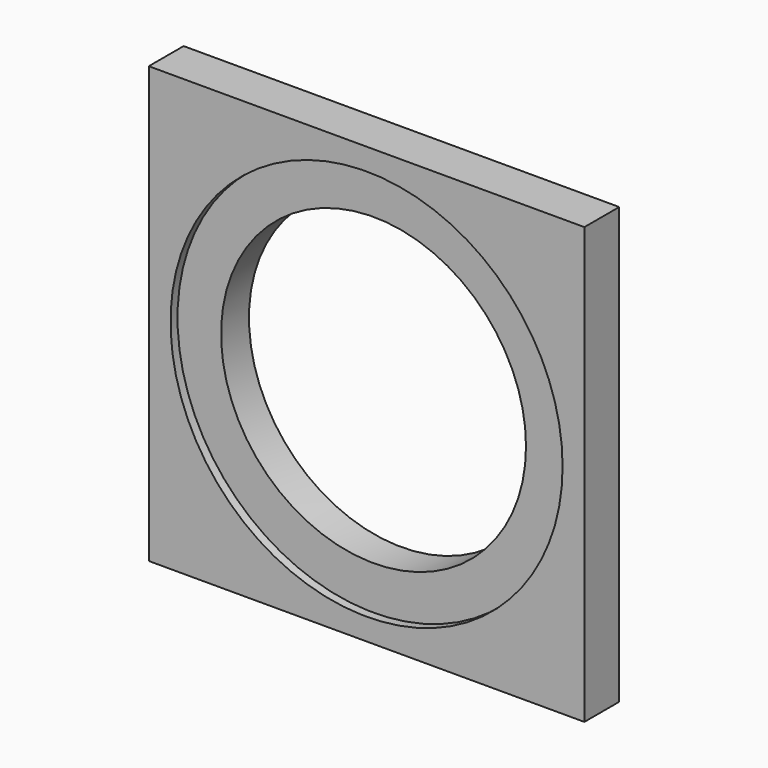
from build123d import *

# Parameters (mm, degrees)
F0_W     = 100
F0_H     = 100
F0_R     = 35
F1_DEPTH = 10
F2_R     = 45
F3_DEPTH = 2


with BuildPart() as f1:
    # F0 (on Front) → F1 (new body)
    with BuildSketch(Plane.XZ):
        Rectangle(F0_W, F0_H)
        Circle(F0_R, mode=Mode.SUBTRACT)
    extrude(amount=F1_DEPTH)

    # F2 (on face) → F3 (cut)
    with BuildSketch(Plane.XZ.offset(10)):
        Circle(F2_R)
    extrude(amount=-F3_DEPTH, mode=Mode.SUBTRACT)


solid = f1.part
